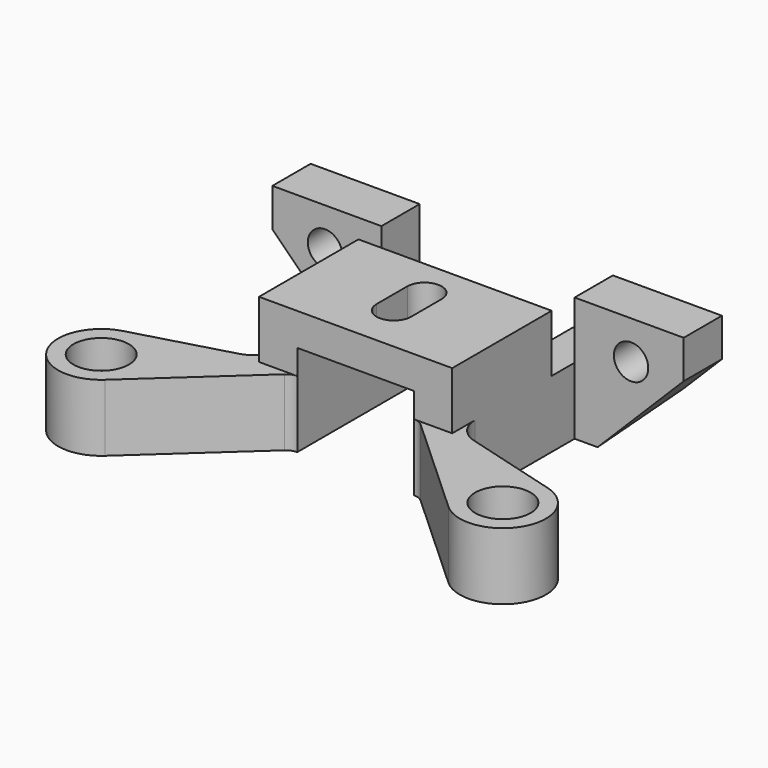
from build123d import *

# Parameters (mm, degrees)
SKETCH_R        = 1.8
PAD_DEPTH       = 7
SKETCH001_R     = 2.9
POCKET_DEPTH    = 3
SKETCH002_W     = 11.4
SKETCH002_H     = 5
PAD001_DEPTH    = 6
SKETCH005_R     = 1.8
POCKET002_DEPTH = 5
SKETCH003_W     = 20.2
SKETCH003_H     = 13
PAD002_DEPTH    = 6
SKETCH009_W     = 12.2
SKETCH009_H     = 13
POCKET006_DEPTH = 9.6
POCKET003_DEPTH = 47.001
POCKET004_DEPTH = 5
POCKET005_DEPTH = 3.2


with BuildPart() as part:
    # Sketch → Pad (new body)
    with BuildSketch(Plane.XY):
        with BuildLine():
            Line((-21.5, 0), (-21.5, -5))
            Line((-21.5, -5), (-10.1, -5))
            Line((-10.1, -5), (-10.1, -18))
            ThreePointArc((-12.291233, -20.888926), (-10.70978, -19.812967), (-10.1, -18))
            Line((-12.291233, -20.888926), (-22.213151, -23.666611))
            ThreePointArc((-22.213151, -23.666611), (-24.933961, -30.184937), (-17.962388, -31.320077))
            Line((-7.112537, -21.393308), (-17.962388, -31.320077))
            ThreePointArc((-6.1, -21), (-6.643121, -21.10178), (-7.112537, -21.393308))
            Line((-6.1, -21), (6.1, -21))
            ThreePointArc((7.112537, -21.393308), (6.643121, -21.10178), (6.1, -21))
            Line((7.112537, -21.393308), (17.962388, -31.320077))
            ThreePointArc((17.962388, -31.320077), (24.933961, -30.184937), (22.213151, -23.666611))
            Line((12.291233, -20.888926), (22.213151, -23.666611))
            ThreePointArc((10.1, -18), (10.70978, -19.812967), (12.291233, -20.888926))
            Line((10.1, -5), (10.1, -18))
            Line((21.5, -5), (10.1, -5))
            Line((21.5, -5), (21.5, 0))
            Line((21.5, 0), (6.1, 0))
            Line((6.1, 0), (6.1, -8))
            Line((-6.1, -8), (6.1, -8))
            Line((-6.1, 0), (-6.1, -8))
            Line((-21.5, 0), (-6.1, 0))
        make_face()
        with Locations((-21, -28)):
            Circle(SKETCH_R, mode=Mode.SUBTRACT)
        with Locations((21, -28)):
            Circle(SKETCH_R, mode=Mode.SUBTRACT)
    extrude(amount=PAD_DEPTH)

    # Sketch001 (on Face26 of Pad) → Pocket (cut)
    with BuildSketch(Plane.XY.offset(7)):
        with Locations((-21, -28)):
            Circle(SKETCH001_R)
        with Locations((21, -28)):
            Circle(SKETCH001_R)
    extrude(amount=-POCKET_DEPTH, mode=Mode.SUBTRACT)

    # Sketch002 (on Face5 of Pocket) → Pad001 (join)
    with BuildSketch(Plane.XY.offset(7)):
        with Locations((15.8, -2.5)):
            Rectangle(SKETCH002_W, SKETCH002_H)
        with Locations((-15.8, -2.5)):
            Rectangle(SKETCH002_W, SKETCH002_H)
    extrude(amount=PAD001_DEPTH)

    # Sketch005 (on Face30 of Pad001) → Pocket002 (cut)
    with BuildSketch(Plane(origin=(0, 0, 0), x_dir=(-1, 0, 0), z_dir=(0, 1, 0))):
        with Locations((-16, 9)):
            Circle(SKETCH005_R)
        with Locations((16, 9)):
            Circle(SKETCH005_R)
    extrude(amount=-POCKET002_DEPTH, mode=Mode.SUBTRACT)

    # Sketch003 (on Face3 of Pad001) → Pad002 (join)
    with BuildSketch(Plane.XY.offset(7)):
        with Locations((0, -14.5)):
            Rectangle(SKETCH003_W, SKETCH003_H)
    extrude(amount=PAD002_DEPTH)

    # Sketch009 (on Face1 of Pad002) → Pocket006 (cut)
    with BuildSketch(Plane(origin=(0, 0, 0), x_dir=(1, 0, 0), z_dir=(0, 0, -1))):
        with Locations((0, 14.5)):
            Rectangle(SKETCH009_W, SKETCH009_H)
    extrude(amount=-POCKET006_DEPTH, mode=Mode.SUBTRACT)

    # Sketch006 → Pocket003 (cut, through all)
    with BuildSketch(Plane(origin=(-21.5, 0, 0), x_dir=(0, -1, 0), z_dir=(-1, 0, 0))):
        Polygon((5, 0), (0, 0), (0, 5), align=None)
    extrude(amount=-POCKET003_DEPTH, mode=Mode.SUBTRACT)

    # Sketch007 (on Face29 of Pocket003) → Pocket004 (cut)
    with BuildSketch(Plane.XZ.offset(5)):
        Polygon((-21.5, 0), (-21.5, 9), (-12.5, 0), align=None)
        Polygon((21.5, 0), (21.5, 9), (12.5, 0), align=None)
    extrude(amount=-POCKET004_DEPTH, mode=Mode.SUBTRACT)

    # Sketch008 (on Face18 of Pocket004) → Pocket005 (cut)
    with BuildSketch(Plane.XY.offset(13)):
        with BuildLine():
            ThreePointArc((1.8, -12), (0, -10.2), (-1.8, -12))
            Line((-1.8, -12), (-1.8, -16))
            ThreePointArc((-1.8, -16), (0, -17.8), (1.8, -16))
            Line((1.8, -12), (1.8, -16))
        make_face()
    extrude(amount=-POCKET005_DEPTH, mode=Mode.SUBTRACT)


solid = part.part
